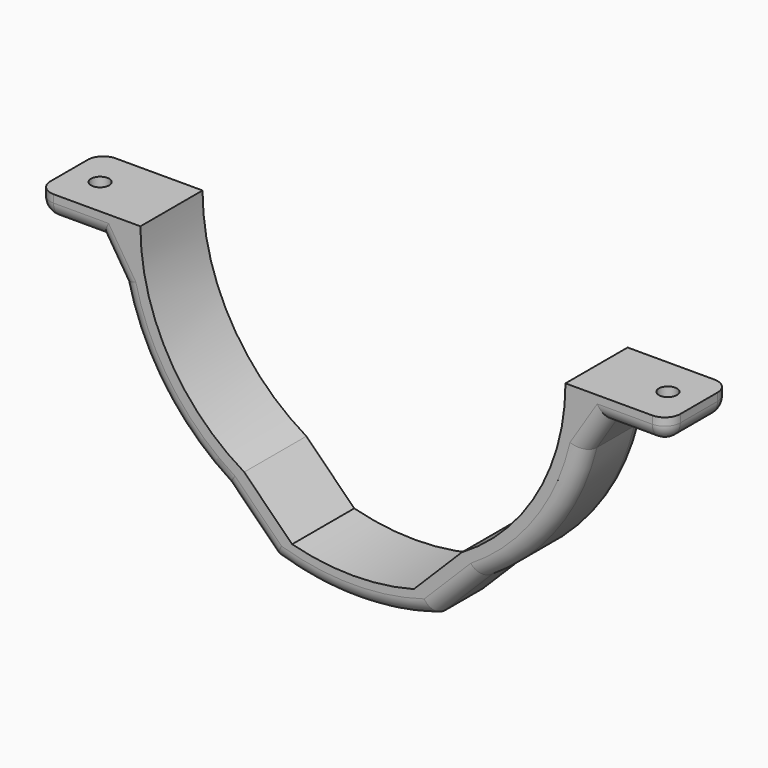
from build123d import *

# Parameters (mm, degrees)
F1_DEPTH = 15
F4_D     = 3.5
F4_DEPTH = 14.5
F5_R     = 3


with BuildPart() as f1:
    # F0 (on Front) → F1 (new body)
    with BuildSketch(Plane.XZ):
        with BuildLine():
            ThreePointArc((-21, -35.271837), (-35.6872, -20.28611), (-41.05, 0))
            Line((-41.05, 0), (-60.83, 0))
            Line((-60.83, 0), (-60.83, -4.5))
            Line((-60.83, -4.5), (-48.83, -4.5))
            Line((-48.83, -4.5), (-44.731143, -10.942))
            ThreePointArc((-44.731143, -10.942), (-37.395384, -26.873551), (-24.634821, -38.906659))
            Line((-24.634821, -38.906659), (-21, -35.271837))
        make_face()
        with BuildLine():
            ThreePointArc((41.05, 0), (35.6872, -20.28611), (21, -35.271837))
            Line((21, -35.271837), (24.634821, -38.906659))
            ThreePointArc((24.634821, -38.906659), (37.395384, -26.873551), (44.731143, -10.942))
            Line((44.731143, -10.942), (48.83, -4.5))
            Line((48.83, -4.5), (60.83, -4.5))
            Line((60.83, -4.5), (60.83, 0))
            Line((60.83, 0), (41.05, 0))
        make_face()
        with BuildLine():
            ThreePointArc((41.05, 0), (35.6872, -20.28611), (21, -35.271837))
            Line((21, -35.271837), (24.634821, -38.906659))
            ThreePointArc((24.634821, -38.906659), (37.395384, -26.873551), (44.731143, -10.942))
            Line((44.731143, -10.942), (48.83, -4.5))
            Line((48.83, -4.5), (60.83, -4.5))
            Line((60.83, -4.5), (60.83, 0))
            Line((60.83, 0), (41.05, 0))
        make_face()
        with BuildLine():
            ThreePointArc((-21, -35.271837), (-35.6872, -20.28611), (-41.05, 0))
            Line((-41.05, 0), (-60.83, 0))
            Line((-60.83, 0), (-60.83, -4.5))
            Line((-60.83, -4.5), (-48.83, -4.5))
            Line((-48.83, -4.5), (-44.731143, -10.942))
            ThreePointArc((-44.731143, -10.942), (-37.395384, -26.873551), (-24.634821, -38.906659))
            Line((-24.634821, -38.906659), (-21, -35.271837))
        make_face()
        with BuildLine():
            ThreePointArc((11.744722, -44.527115), (0, -46.05), (-11.744722, -44.527115))
            Line((-11.744722, -44.527115), (-15.379543, -48.161937))
            ThreePointArc((-15.379543, -48.161937), (0, -50.557912), (15.379543, -48.161937))
            Line((15.379543, -48.161937), (11.744722, -44.527115))
        make_face()
        Polygon((-11.744722, -44.527115), (-21, -35.271837), (-24.634821, -38.906659), (-15.379543, -48.161937), align=None)
        Polygon((24.634821, -38.906659), (21, -35.271837), (11.744722, -44.527115), (15.379543, -48.161937), align=None)
    extrude(amount=F1_DEPTH)

    # F4
    with Locations(Plane(origin=(0, 0, -4.5), x_dir=(1, 0, 0), z_dir=(0, 0, -1))):
        with Locations((-54.83, 7.5), (54.83, 7.5)):
            Hole(F4_D / 2, depth=F4_DEPTH)

    # F5
    f5_edges = [f1.edges().sort_by_distance(p)[0] for p in [
        (-60.83, 0, -2.25),
        (-54.83, 0, -4.5),
        (-60.83, -7.5, -4.5),
        (-60.83, -15, -2.25),
        (-54.83, -15, -4.5),
        (-46.780571, -15, -7.721),
        (-46.780571, 0, -7.721),
        (-20.007182, 0, -43.534298),
        (-37.395384, 0, -26.873551),
        (0, 0, -50.557912),
        (20.007182, 0, -43.534298),
        (37.395384, 0, -26.873551),
        (46.780571, 0, -7.721),
        (54.83, 0, -4.5),
        (60.83, -7.5, -4.5),
        (60.83, -15, -2.25),
        (54.83, -15, -4.5),
        (46.780571, -15, -7.721),
        (-20.007182, -15, -43.534298),
        (0, -15, -50.557912),
        (20.007182, -15, -43.534298),
        (37.395384, -15, -26.873551),
        (-37.395384, -15, -26.873551),
        (60.83, 0, -2.25),
    ]]
    fillet(f5_edges, radius=F5_R)


solid = f1.part
